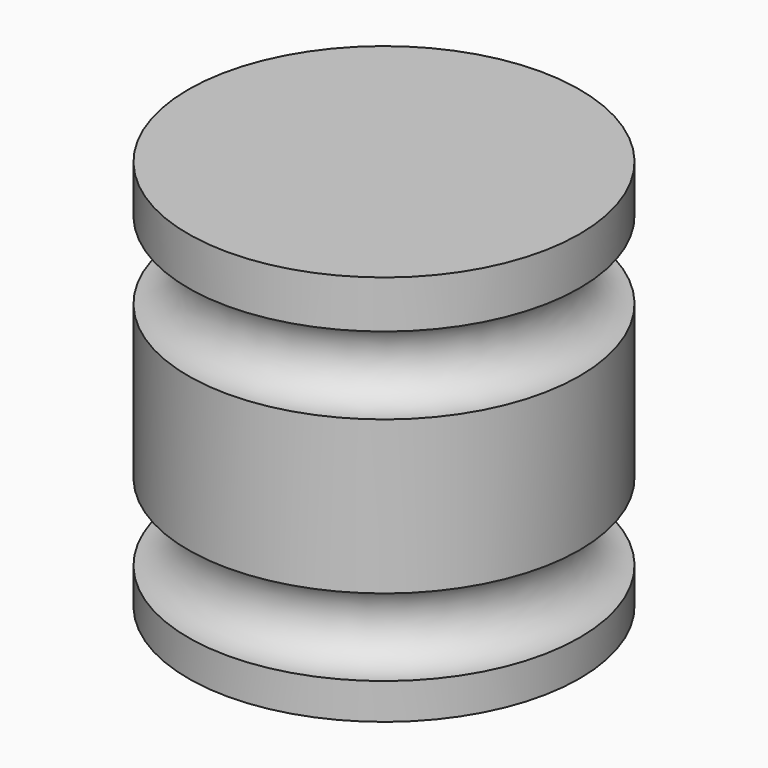
from build123d import *


with BuildPart() as f1:
    # F0 (on Front) → F1 (revolve)
    with BuildSketch(Plane.XZ):
        with BuildLine():
            Line((-38.1, 0), (0, 0))
            Line((0, 0), (0, 7.004369))
            ThreePointArc((0, 7.004369), (-7.508185, 14.512554), (0, 22.020739))
            Line((0, 22.020739), (0, 51.852045))
            ThreePointArc((0, 51.852045), (-7.534849, 59.386894), (0, 66.921743))
            Line((0, 66.921743), (0, 76.190904))
            Line((0, 76.190904), (-38.1, 76.190904))
            Line((-38.1, 76.190904), (-38.1, 0))
        make_face()
    revolve(axis=Axis((-38.1, 0, 38.095452), (0, 0, 1)))


solid = f1.part
